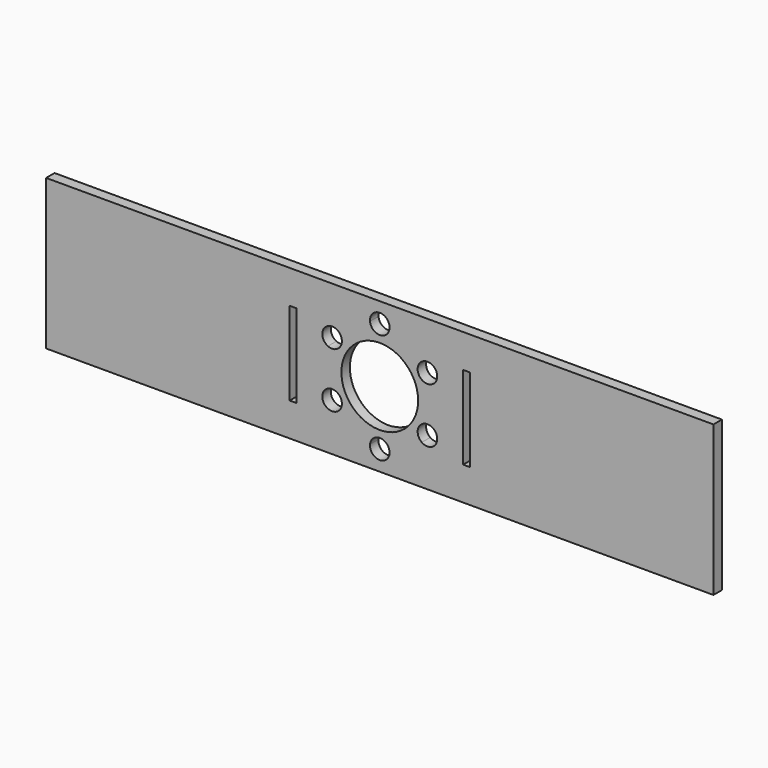
from build123d import *

# Parameters (mm, degrees)
F0_W     = 400
F0_H     = 90
F0_W_2   = 4
F0_H_2   = 50
F0_R     = 23
F1_DEPTH = 6.35


with BuildPart() as f1:
    # F0 (on Front) → F1 (new body)
    with BuildSketch(Plane.XZ):
        Rectangle(F0_W, F0_H)
        with Locations((-52, 0)):
            Rectangle(F0_W_2, F0_H_2, mode=Mode.SUBTRACT)
        with BuildLine():
            ThreePointArc((31.051097, 11.172706), (32.509123, 5.670705), (33, 0))
            ThreePointArc((33, 0), (32.509123, -5.670705), (31.051097, -11.172706))
            ThreePointArc((31.051097, -11.172706), (33.529177, -13.339893), (34.451838, -16.5))
            ThreePointArc((34.451838, -16.5), (31.285904, -21.711902), (25.201396, -21.304686))
            ThreePointArc((25.201396, -21.304686), (16.5, -28.578838), (5.849702, -32.477392))
            ThreePointArc((5.849702, -32.477392), (5.867172, -32.738436), (5.873, -33))
            ThreePointArc((5.873, -33), (-0.261564, -38.867172), (-5.849702, -32.477392))
            ThreePointArc((-5.849702, -32.477392), (-16.5, -28.578838), (-25.201396, -21.304686))
            ThreePointArc((-25.201396, -21.304686), (-33.665005, -19.4365), (-31.051097, -11.172706))
            ThreePointArc((-31.051097, -11.172706), (-33, 0), (-31.051097, 11.172706))
            ThreePointArc((-31.051097, 11.172706), (-33.665005, 19.4365), (-25.201396, 21.304686))
            ThreePointArc((-25.201396, 21.304686), (-16.5, 28.578838), (-5.849702, 32.477392))
            ThreePointArc((-5.849702, 32.477392), (-0.261564, 38.867172), (5.873, 33))
            ThreePointArc((5.873, 33), (5.867172, 32.738436), (5.849702, 32.477392))
            ThreePointArc((5.849702, 32.477392), (16.5, 28.578838), (25.201396, 21.304686))
            ThreePointArc((25.201396, 21.304686), (31.285904, 21.711902), (34.451838, 16.5))
            ThreePointArc((34.451838, 16.5), (33.529177, 13.339893), (31.051097, 11.172706))
        make_face(mode=Mode.SUBTRACT)
        with Locations((52, 0)):
            Rectangle(F0_W_2, F0_H_2, mode=Mode.SUBTRACT)
        with BuildLine():
            ThreePointArc((31.051097, -11.172706), (32.509123, -5.670705), (33, 0))
            ThreePointArc((33, 0), (32.509123, 5.670705), (31.051097, 11.172706))
            ThreePointArc((31.051097, 11.172706), (23.492671, 13.5635), (25.201396, 21.304686))
            ThreePointArc((25.201396, 21.304686), (16.5, 28.578838), (5.849702, 32.477392))
            ThreePointArc((5.849702, 32.477392), (0, 27.127), (-5.849702, 32.477392))
            ThreePointArc((-5.849702, 32.477392), (-16.5, 28.578838), (-25.201396, 21.304686))
            ThreePointArc((-25.201396, 21.304686), (-23.366936, 19.207066), (-22.705838, 16.5))
            ThreePointArc((-22.705838, 16.5), (-25.418731, 11.549661), (-31.051097, 11.172706))
            ThreePointArc((-31.051097, 11.172706), (-33, 0), (-31.051097, -11.172706))
            ThreePointArc((-31.051097, -11.172706), (-25.418731, -11.549661), (-22.705838, -16.5))
            ThreePointArc((-22.705838, -16.5), (-23.366936, -19.207066), (-25.201396, -21.304686))
            ThreePointArc((-25.201396, -21.304686), (-16.5, -28.578838), (-5.849702, -32.477392))
            ThreePointArc((-5.849702, -32.477392), (0, -27.127), (5.849702, -32.477392))
            ThreePointArc((5.849702, -32.477392), (16.5, -28.578838), (25.201396, -21.304686))
            ThreePointArc((25.201396, -21.304686), (23.492671, -13.5635), (31.051097, -11.172706))
        make_face()
        Circle(F0_R, mode=Mode.SUBTRACT)
    extrude(amount=F1_DEPTH)


solid = f1.part
